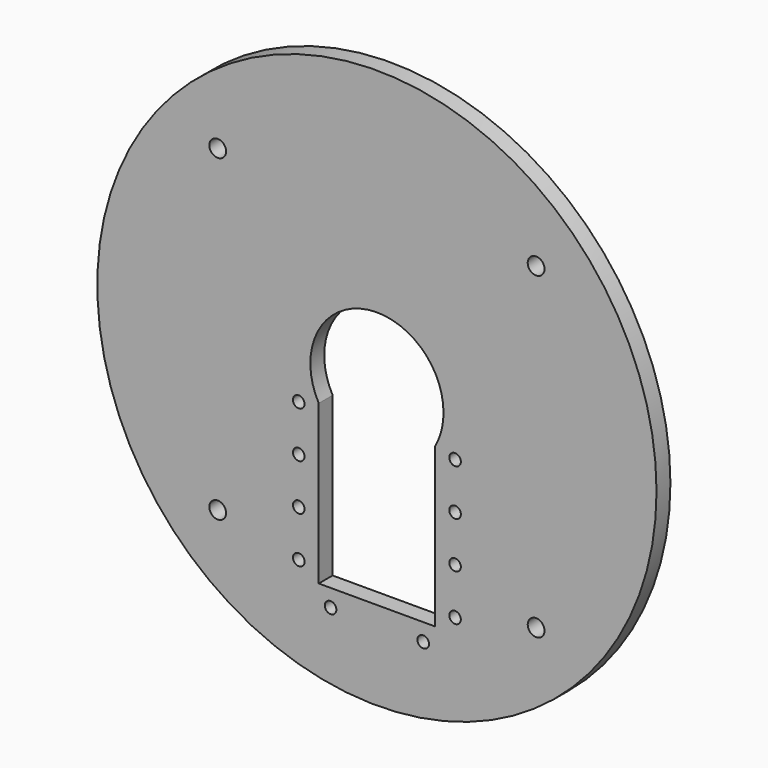
from build123d import *

# Parameters (mm, degrees)
F0_R     = 48.3
F1_DEPTH = 3
F2_R     = 1.25
F2_R_2   = 2.5
F3_DEPTH = 3.001
F4_R     = 1.45
F5_DEPTH = 3.001
F6_R     = 1
F7_DEPTH = 3.001


with BuildPart() as f1:
    # F0 (on Front) → F1 (new body)
    with BuildSketch(Plane.XZ):
        Circle(F0_R)
    extrude(amount=F1_DEPTH)

    # F2 (on face) → F3 (cut, through all)
    with BuildSketch(Plane.XZ.offset(3)):
        with Locations((-8, 0)):
            Circle(F2_R)
        with Locations((8, 0)):
            Circle(F2_R)
        Circle(F2_R_2)
    extrude(amount=-F3_DEPTH, mode=Mode.SUBTRACT)

    # F4 (on face) → F5 (cut, through all)
    with BuildSketch(Plane.XZ.offset(3)):
        with Locations((-27.5, 27.5)):
            Circle(F4_R)
        with Locations((27.5, 27.5)):
            Circle(F4_R)
        with Locations((-27.5, -27.5)):
            Circle(F4_R)
        with Locations((27.5, -27.5)):
            Circle(F4_R)
    extrude(amount=-F5_DEPTH, mode=Mode.SUBTRACT)

    # F6 (on face) → F7 (cut, through all)
    with BuildSketch(Plane.XZ.offset(3)):
        with BuildLine():
            Line((-10.05, -33), (10.05, -33))
            Line((10.05, -33), (10.05, -5.5899463325))
            ThreePointArc((10.05, -5.5899463325), (0, -11.5), (-10.05, -5.5899463325))
            Line((-10.05, -5.5899463325), (-10.05, -33))
        make_face()
        with BuildLine():
            ThreePointArc((-10.05, -5.5899463325), (0, -11.5), (10.05, -5.5899463325))
            Line((10.05, -5.5899463325), (10.05, 0))
            Line((10.05, 0), (-10.05, 0))
            Line((-10.05, 0), (-10.05, -5.5899463325))
        make_face()
        with BuildLine():
            Line((10.05, 0), (10.05, -5.5899463325))
            ThreePointArc((10.05, -5.5899463325), (11.1315991663, -2.8874729436), (11.5, 0))
            ThreePointArc((11.5, 0), (-2.8874729436, 11.1315991663), (-10.05, -5.5899463325))
            Line((-10.05, -5.5899463325), (-10.05, 0))
            Line((-10.05, 0), (10.05, 0))
        make_face()
        with Locations((-13.5, -6.5)):
            Circle(F6_R)
        with Locations((-13.5, -14.5)):
            Circle(F6_R)
        with Locations((-13.5, -22.5)):
            Circle(F6_R)
        with Locations((-13.5, -30.5)):
            Circle(F6_R)
        with Locations((13.5, -6.5)):
            Circle(F6_R)
        with Locations((13.5, -14.5)):
            Circle(F6_R)
        with Locations((13.5, -22.5)):
            Circle(F6_R)
        with Locations((13.5, -30.5)):
            Circle(F6_R)
        with Locations((-8, -36)):
            Circle(F6_R)
        with Locations((8, -36)):
            Circle(F6_R)
    extrude(amount=-F7_DEPTH, mode=Mode.SUBTRACT)


solid = f1.part
